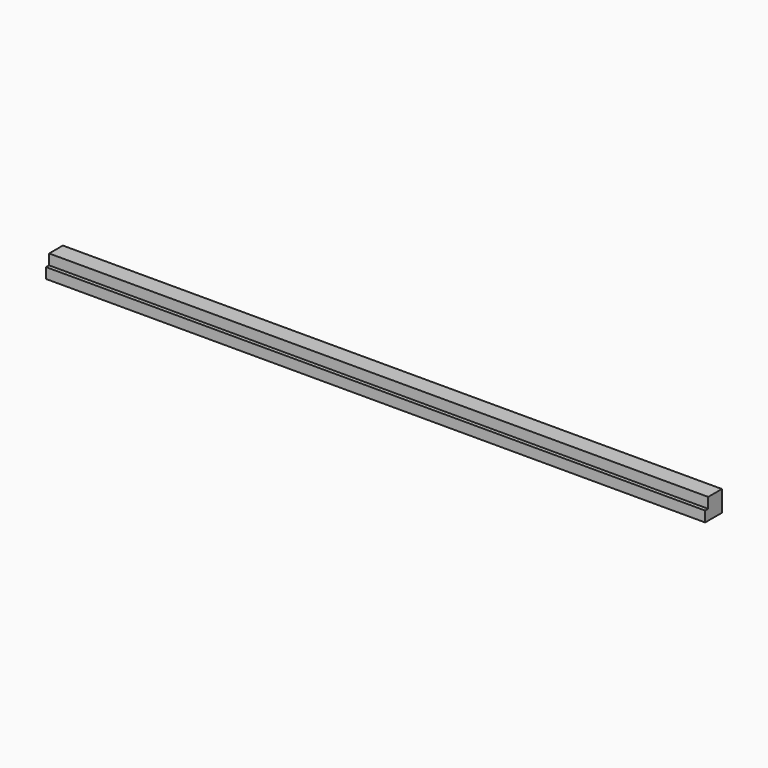
from build123d import *

# Parameters (mm, degrees)
F0_W     = 34.925
F0_H     = 34.925
F1_DEPTH = 1098.55
F2_W     = 6.35
F2_H     = 17.4625
F3_DEPTH = 1098.551


with BuildPart() as f1:
    # F0 (on Right) → F1 (new body)
    with BuildSketch(Plane.YZ):
        Rectangle(F0_W, F0_H)
    extrude(amount=F1_DEPTH)

    # F2 (on face) → F3 (cut, through all)
    with BuildSketch(Plane.YZ.offset(1098.55)):
        with Locations((-14.2875, 8.73125)):
            Rectangle(F2_W, F2_H)
    extrude(amount=-F3_DEPTH, mode=Mode.SUBTRACT)


solid = f1.part
